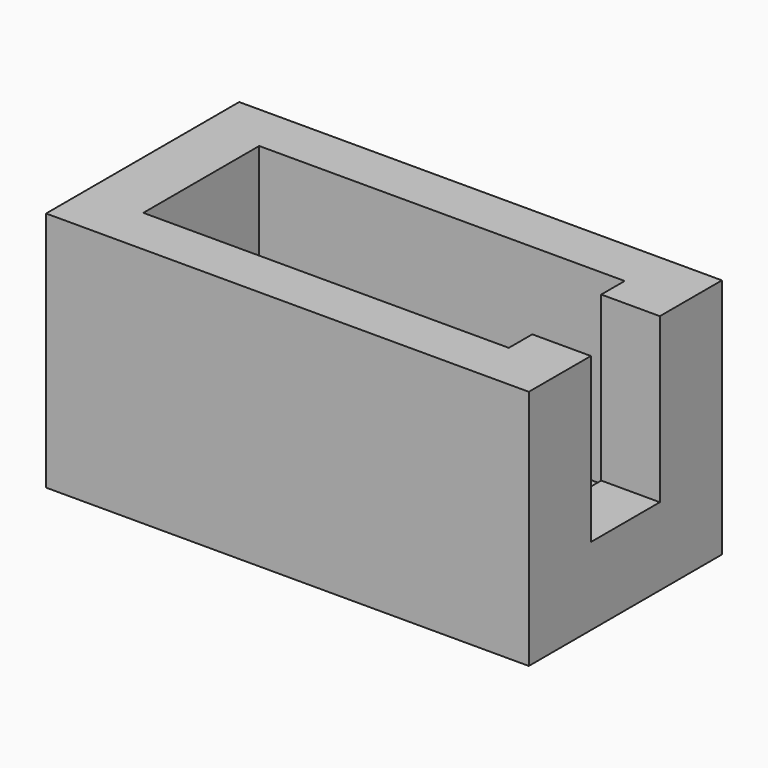
from build123d import *

# Parameters (mm, degrees)
F0_W     = 70
F0_H     = 35
F1_DEPTH = 35
F2_W     = 21
F2_H     = 19
F3_DEPTH = 26.5
F4_W     = 12.5
F4_H     = 12.5
F5_DEPTH = 10
F7_DEPTH = 12


with BuildPart() as f1:
    # F0 (on Top) → F1 (new body)
    with BuildSketch(Plane.XY):
        Rectangle(F0_W, F0_H)
    extrude(amount=F1_DEPTH)

    # F2 (on Right) → F3 (cut, symmetric)
    with BuildSketch(Plane.YZ):
        with Locations((0, 17.5)):
            Rectangle(F2_W, F2_H)
    extrude(amount=F3_DEPTH, both=True, mode=Mode.SUBTRACT)

    # F4 (on face) → F5 (cut)
    with BuildSketch(Plane.YZ.offset(35)):
        with Locations((0, 17.5)):
            Rectangle(F4_W, F4_H)
    extrude(amount=-F5_DEPTH, mode=Mode.SUBTRACT)

    # F6 (on face) → F7 (cut)
    with BuildSketch(Plane.XY.offset(35)):
        Polygon((26.5, 10.5), (-26.5, 10.5), (-26.5, -10.5), (26.5, -10.5), (26.5, -6.25), (35, -6.25), (35, 6.25), (26.5, 6.25), align=None)
    extrude(amount=-F7_DEPTH, mode=Mode.SUBTRACT)


solid = f1.part
